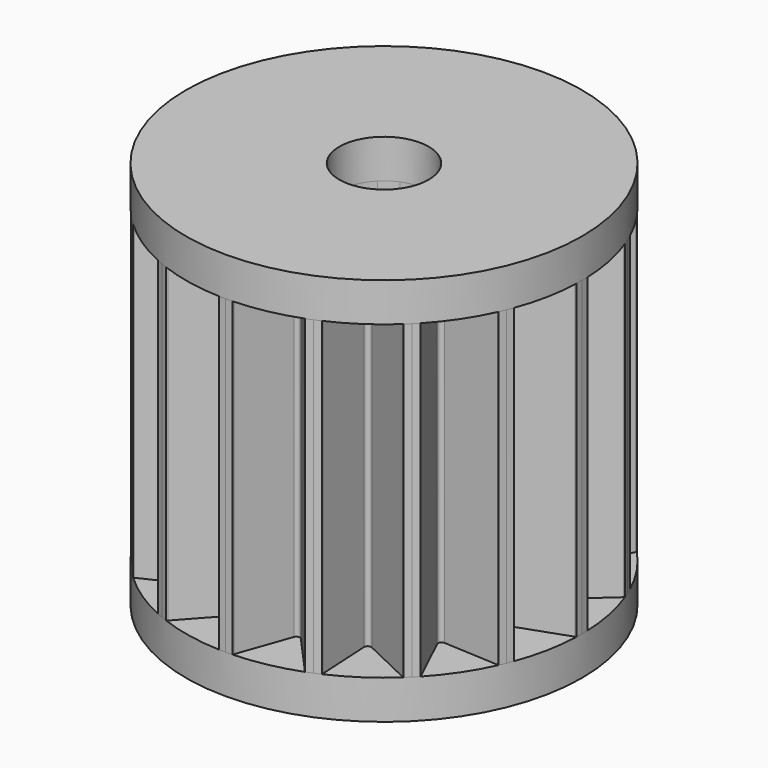
from build123d import *

# Parameters (mm, degrees)
F1_DEPTH = 8
F2_COUNT = 16
F3_DEPTH = 25
F4_R     = 5.0929581789
F4_R_2   = 1.15
F5_DEPTH = 1
F6_R     = 5.0929581789
F6_R_2   = 1.15
F7_DEPTH = 1


with BuildPart() as f1:
    # F0 (on Top) → F1 (new body)
    with BuildSketch(Plane.XY):
        with BuildLine():
            Line((0, 5.0929581789), (0, 1.15))
            ThreePointArc((0, 1.15), (0.2243538703, 1.1279030725), (0.4400859472, 1.0624614624))
            Line((0.4400859472, 1.0624614624), (1.9489907168, 4.7052798215))
            ThreePointArc((1.9489907168, 4.7052798215), (1.868165198, 4.7379512245), (1.7867922863, 4.7692343555))
            ThreePointArc((1.7867922863, 4.7692343555), (1.7736634606, 4.7579707401), (1.7615570444, 4.7456147787))
            Line((1.7615570444, 4.7456147787), (0.8151235282, 3.6921648084))
            ThreePointArc((0.8151235282, 3.6921648084), (0.7286962308, 3.6634033387), (0.6598543575, 3.7230497667))
            Line((0.6598543575, 3.7230497667), (0.1886016535, 5.0584950593))
            ThreePointArc((0.1886016535, 5.0584950593), (0.1821452051, 5.0745434041), (0.1743261508, 5.0899738119))
            ThreePointArc((0.1743261508, 5.0899738119), (0.0871758471, 5.0922120325), (0, 5.0929581789))
        make_face()
        with BuildLine():
            Line((0, 1.15), (0, 0))
            Line((0, 0), (0.4400859472, 1.0624614624))
            ThreePointArc((0.4400859472, 1.0624614624), (0.2243538703, 1.1279030725), (0, 1.15))
        make_face()
    extrude(amount=F1_DEPTH)

    # F2: F1 ×16 about axis
    f2_axis = Axis((0, 0, 0), (0, 0, 1))


with BuildPart() as f1_1:
    add(f1.part)
    for i in range(1, F2_COUNT):
        add(f1.part.rotate(f2_axis, i * 360 / F2_COUNT))

    # F0 (on Top) → F3 (cut)
    with BuildSketch(Plane.XY):
        with BuildLine():
            Line((-0.8131727984, 0.8131727984), (0, 0))
            Line((0, 0), (-0.4400859472, 1.0624614624))
            ThreePointArc((-0.4400859472, 1.0624614624), (-0.638905768, 0.9561900541), (-0.8131727984, 0.8131727984))
        make_face()
        with BuildLine():
            Line((-0.4400859472, 1.0624614624), (0, 0))
            Line((0, 0), (0, 1.15))
            ThreePointArc((0, 1.15), (-0.2243538703, 1.1279030725), (-0.4400859472, 1.0624614624))
        make_face()
        with BuildLine():
            Line((0, 1.15), (0, 0))
            Line((0, 0), (0.4400859472, 1.0624614624))
            ThreePointArc((0.4400859472, 1.0624614624), (0.2243538703, 1.1279030725), (0, 1.15))
        make_face()
        with BuildLine():
            Line((0.4400859472, 1.0624614624), (0, 0))
            Line((0, 0), (0.8131727984, 0.8131727984))
            ThreePointArc((0.8131727984, 0.8131727984), (0.638905768, 0.9561900541), (0.4400859472, 1.0624614624))
        make_face()
        with BuildLine():
            Line((-1.0624614624, 0.4400859472), (0, 0))
            Line((0, 0), (-0.8131727984, 0.8131727984))
            ThreePointArc((-0.8131727984, 0.8131727984), (-0.9561900541, 0.638905768), (-1.0624614624, 0.4400859472))
        make_face()
        with BuildLine():
            Line((-1.15, 0), (0, 0))
            Line((0, 0), (-1.0624614624, 0.4400859472))
            ThreePointArc((-1.0624614624, 0.4400859472), (-1.1279030725, 0.2243538703), (-1.15, 0))
        make_face()
        with BuildLine():
            Line((-1.0624614624, -0.4400859472), (0, 0))
            Line((0, 0), (-1.15, 0))
            ThreePointArc((-1.15, 0), (-1.1279030725, -0.2243538703), (-1.0624614624, -0.4400859472))
        make_face()
        with BuildLine():
            Line((-0.8131727984, -0.8131727984), (0, 0))
            Line((0, 0), (-1.0624614624, -0.4400859472))
            ThreePointArc((-1.0624614624, -0.4400859472), (-0.9561900541, -0.638905768), (-0.8131727984, -0.8131727984))
        make_face()
        with BuildLine():
            Line((-0.4400859472, -1.0624614624), (0, 0))
            Line((0, 0), (-0.8131727984, -0.8131727984))
            ThreePointArc((-0.8131727984, -0.8131727984), (-0.638905768, -0.9561900541), (-0.4400859472, -1.0624614624))
        make_face()
        with BuildLine():
            Line((0, -1.15), (0, 0))
            Line((0, 0), (-0.4400859472, -1.0624614624))
            ThreePointArc((-0.4400859472, -1.0624614624), (-0.2243538703, -1.1279030725), (0, -1.15))
        make_face()
        with BuildLine():
            Line((0.4400859472, -1.0624614624), (0, 0))
            Line((0, 0), (0, -1.15))
            ThreePointArc((0, -1.15), (0.2243538703, -1.1279030725), (0.4400859472, -1.0624614624))
        make_face()
        with BuildLine():
            Line((0.8131727984, -0.8131727984), (0, 0))
            Line((0, 0), (0.4400859472, -1.0624614624))
            ThreePointArc((0.4400859472, -1.0624614624), (0.638905768, -0.9561900541), (0.8131727984, -0.8131727984))
        make_face()
        with BuildLine():
            ThreePointArc((0.8131727984, -0.8131727984), (0.9561900541, -0.638905768), (1.0624614624, -0.4400859472))
            Line((1.0624614624, -0.4400859472), (0, 0))
            Line((0, 0), (0.8131727984, -0.8131727984))
        make_face()
        with BuildLine():
            ThreePointArc((1.0624614624, -0.4400859472), (1.1279030725, -0.2243538703), (1.15, 0))
            Line((1.15, 0), (0, 0))
            Line((0, 0), (1.0624614624, -0.4400859472))
        make_face()
        with BuildLine():
            Line((0, 0), (1.15, 0))
            ThreePointArc((1.15, 0), (1.1279030725, 0.2243538703), (1.0624614624, 0.4400859472))
            Line((1.0624614624, 0.4400859472), (0, 0))
        make_face()
        with BuildLine():
            Line((0, 0), (1.0624614624, 0.4400859472))
            ThreePointArc((1.0624614624, 0.4400859472), (0.9561900541, 0.638905768), (0.8131727984, 0.8131727984))
            Line((0.8131727984, 0.8131727984), (0, 0))
        make_face()
    extrude(amount=F3_DEPTH, mode=Mode.SUBTRACT)

    # F4 (on face) → F5 (join)
    with BuildSketch(Plane.XY):
        Circle(F4_R)
        Circle(F4_R_2, mode=Mode.SUBTRACT)
    extrude(amount=-F5_DEPTH)

    # F6 (on face) → F7 (join)
    with BuildSketch(Plane.XY.offset(8)):
        Circle(F6_R)
        Circle(F6_R_2, mode=Mode.SUBTRACT)
    extrude(amount=F7_DEPTH)


solid = f1_1.part
